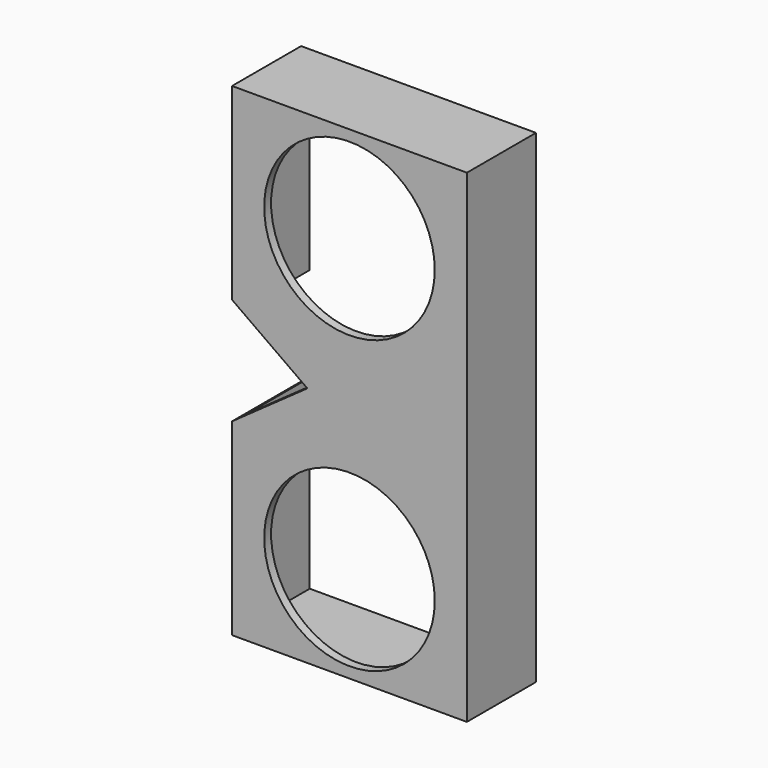
from build123d import *

# Parameters (mm, degrees)
F0_W     = 68
F0_H     = 140
F1_DEPTH = 12.5
F2_T     = -2.5
F3_R     = 24.694221
F4_DEPTH = 150


with BuildPart() as f1:
    # F0 (on Front) → F1 (new body, symmetric)
    with BuildSketch(Plane.XZ):
        Rectangle(F0_W, F0_H)
    extrude(amount=F1_DEPTH, both=True)

    # F2
    f2_openings = [f1.faces().sort_by_distance(p)[0] for p in [
        (0, 12.5, 0),
    ]]
    offset(amount=F2_T, openings=f2_openings)

    # F3 (on face) → F4 (cut, symmetric)
    with BuildSketch(Plane.XZ.offset(12.5)):
        with Locations((0, 42.172134)):
            Circle(F3_R)
        with Locations((0, -42.172134)):
            Circle(F3_R)
        Polygon((-12.192623, 0), (-34, 15.491804), (-34, -15.491804), align=None)
    extrude(amount=F4_DEPTH, both=True, mode=Mode.SUBTRACT)


solid = f1.part
